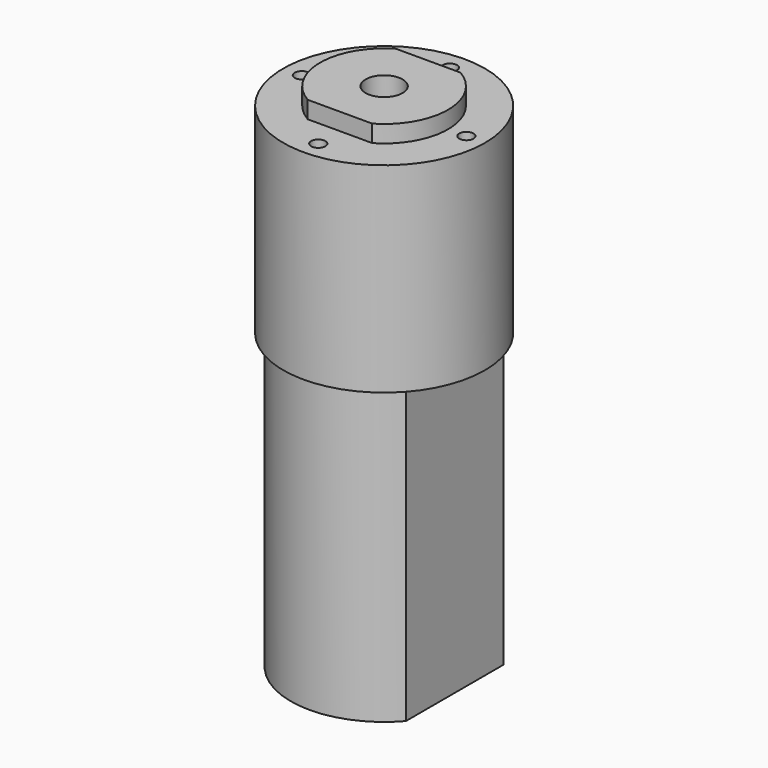
from build123d import *

# Parameters (mm, degrees)
F0_R     = 10.9728
F1_DEPTH = 21.7805
F2_R     = 0.7747
F3_DEPTH = 6.35
F5_DEPTH = 1.8669
F6_R     = 2.01295
F7_DEPTH = 2.54
F8_W     = 15.367
F8_H     = 13.295026
F9_DEPTH = 31.9786


with BuildPart() as f1:
    # F0 (on Top) → F1 (new body)
    with BuildSketch(Plane.XY):
        with Locations((-29.485371, 20.489834)):
            Circle(F0_R)
    extrude(amount=F1_DEPTH)

    # F2 (on face) → F3 (cut)
    with BuildSketch(Plane.XY.offset(21.7805)):
        with Locations((-38.438871, 20.489834)):
            Circle(F2_R)
        with Locations((-29.485371, 11.536334)):
            Circle(F2_R)
        with Locations((-20.531871, 20.489834)):
            Circle(F2_R)
        with Locations((-29.485371, 29.443334)):
            Circle(F2_R)
    extrude(amount=-F3_DEPTH, mode=Mode.SUBTRACT)

    # F4 (on face) → F5 (join)
    with BuildSketch(Plane.XY.offset(21.7805)):
        with BuildLine():
            Line((-32.999739, 14.482734), (-25.971003, 14.482734))
            ThreePointArc((-25.971003, 14.482734), (-22.525771, 20.489834), (-25.971003, 26.496934))
            Line((-25.971003, 26.496934), (-32.999739, 26.496934))
            ThreePointArc((-32.999739, 26.496934), (-36.444971, 20.489834), (-32.999739, 14.482734))
        make_face()
    extrude(amount=F5_DEPTH)

    # F6 (on face) → F7 (cut)
    with BuildSketch(Plane.XY.offset(23.6474)):
        with Locations((-29.485371, 20.489834)):
            Circle(F6_R)
    extrude(amount=-F7_DEPTH, mode=Mode.SUBTRACT)

    # F8 (on face) → F9 (join)
    with BuildSketch(Plane(origin=(0, 0, 0), x_dir=(1, 0, 0), z_dir=(0, 0, -1))):
        with BuildLine():
            ThreePointArc((-37.168871, -27.137347), (-29.485371, -30.649834), (-21.801871, -27.137347))
            Line((-21.801871, -27.137347), (-37.168871, -27.137347))
        make_face()
        with Locations((-29.485371, -20.489834)):
            Rectangle(F8_W, F8_H)
        with BuildLine():
            Line((-37.168871, -13.842321), (-21.801871, -13.842321))
            ThreePointArc((-21.801871, -13.842321), (-29.485371, -10.329834), (-37.168871, -13.842321))
        make_face()
    extrude(amount=F9_DEPTH)


solid = f1.part
